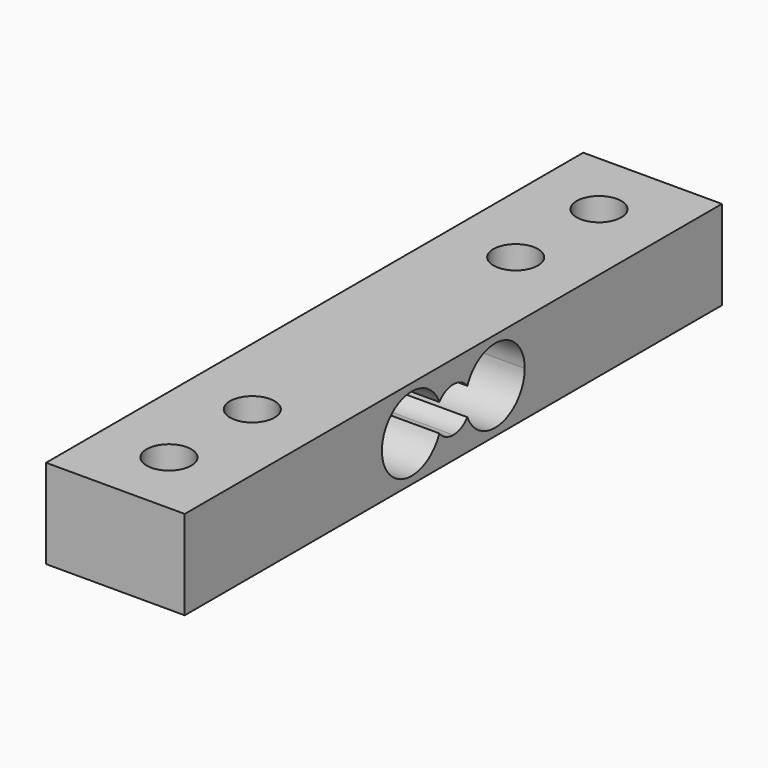
from build123d import *

# Parameters (mm, degrees)
F0_W     = 9.32
F0_H     = 45.13
F0_R     = 1.5
F1_DEPTH = 6
F3_DEPTH = 9.32


with BuildPart() as f1:
    # F0 (on Top) → F1 (new body)
    with BuildSketch(Plane.XY):
        Rectangle(F0_W, F0_H)
        with Locations((0, -18.065)):
            Circle(F0_R, mode=Mode.SUBTRACT)
        with Locations((0, -11.065)):
            Circle(F0_R, mode=Mode.SUBTRACT)
        with Locations((0, 11.065)):
            Circle(F0_R, mode=Mode.SUBTRACT)
        with Locations((0, 18.065)):
            Circle(F0_R, mode=Mode.SUBTRACT)
    extrude(amount=F1_DEPTH)

    # F2 (on face) → F3 (cut, through all)
    with BuildSketch(Plane.YZ.offset(4.66)):
        with BuildLine():
            ThreePointArc((1.1785714286, 3.9278843612), (1.4173667738, 3.490990253), (1.5, 3))
            Line((1.5, 3), (6, 3))
            ThreePointArc((6, 3), (3.9724555913, 5.4549512652), (1.1785714286, 3.9278843612))
        make_face()
        with BuildLine():
            ThreePointArc((1.5, 3), (1.4173667738, 2.509009747), (1.1785714286, 2.0721156388))
            ThreePointArc((1.1785714286, 2.0721156388), (3.9724555913, 0.5450487348), (6, 3))
            Line((6, 3), (1.5, 3))
        make_face()
        with BuildLine():
            Line((-6, 3), (-1.5, 3))
            ThreePointArc((-1.5, 3), (-1.4173667738, 3.490990253), (-1.1785714286, 3.9278843612))
            ThreePointArc((-1.1785714286, 3.9278843612), (-3.9724555913, 5.4549512652), (-6, 3))
        make_face()
        with BuildLine():
            ThreePointArc((-6, 3), (-3.9724555913, 0.5450487348), (-1.1785714286, 2.0721156388))
            ThreePointArc((-1.1785714286, 2.0721156388), (-1.4173667738, 2.509009747), (-1.5, 3))
            Line((-1.5, 3), (-6, 3))
        make_face()
        with BuildLine():
            Line((-1.5, 3), (-1, 3))
            ThreePointArc((-1, 3), (-1.0450487348, 3.4724555913), (-1.1785714286, 3.9278843612))
            ThreePointArc((-1.1785714286, 3.9278843612), (-1.4173667738, 3.490990253), (-1.5, 3))
        make_face()
        with BuildLine():
            ThreePointArc((-1.5, 3), (-1.4173667738, 2.509009747), (-1.1785714286, 2.0721156388))
            ThreePointArc((-1.1785714286, 2.0721156388), (-1.0450487348, 2.5275444087), (-1, 3))
            Line((-1, 3), (-1.5, 3))
        make_face()
        with BuildLine():
            Line((-1, 3), (0, 3))
            Line((0, 3), (0, 4.5))
            ThreePointArc((0, 4.5), (-0.6550471198, 4.3494121946), (-1.1785714286, 3.9278843612))
            ThreePointArc((-1.1785714286, 3.9278843612), (-1.0450487348, 3.4724555913), (-1, 3))
        make_face()
        with BuildLine():
            Line((0, 4.5), (0, 3))
            Line((0, 3), (1, 3))
            ThreePointArc((1, 3), (1.0450487348, 3.4724555913), (1.1785714286, 3.9278843612))
            ThreePointArc((1.1785714286, 3.9278843612), (0.6550471198, 4.3494121946), (0, 4.5))
        make_face()
        with BuildLine():
            ThreePointArc((1.1785714286, 3.9278843612), (1.0450487348, 3.4724555913), (1, 3))
            Line((1, 3), (1.5, 3))
            ThreePointArc((1.5, 3), (1.4173667738, 3.490990253), (1.1785714286, 3.9278843612))
        make_face()
        with BuildLine():
            ThreePointArc((1, 3), (1.0450487348, 2.5275444087), (1.1785714286, 2.0721156388))
            ThreePointArc((1.1785714286, 2.0721156388), (1.4173667738, 2.509009747), (1.5, 3))
            Line((1.5, 3), (1, 3))
        make_face()
        with BuildLine():
            Line((0, 3), (0, 1.5))
            ThreePointArc((0, 1.5), (0.6550471198, 1.6505878054), (1.1785714286, 2.0721156388))
            ThreePointArc((1.1785714286, 2.0721156388), (1.0450487348, 2.5275444087), (1, 3))
            Line((1, 3), (0, 3))
        make_face()
        with BuildLine():
            ThreePointArc((-1.1785714286, 2.0721156388), (-0.6550471198, 1.6505878054), (0, 1.5))
            Line((0, 1.5), (0, 3))
            Line((0, 3), (-1, 3))
            ThreePointArc((-1, 3), (-1.0450487348, 2.5275444087), (-1.1785714286, 2.0721156388))
        make_face()
    extrude(amount=-F3_DEPTH, mode=Mode.SUBTRACT)


solid = f1.part
